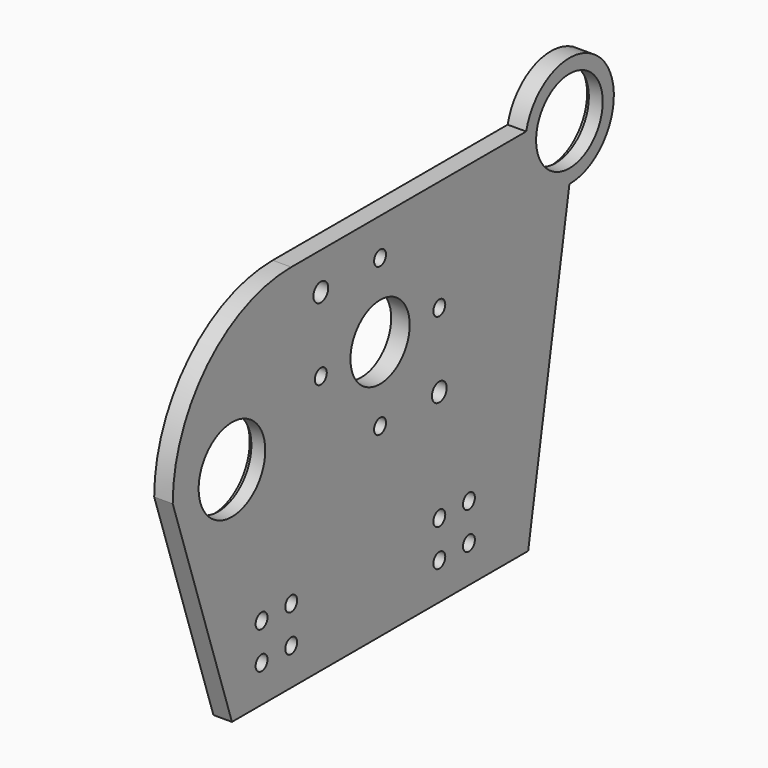
from build123d import *

# Parameters (mm, degrees)
F0_R     = 2.5527
F0_R_2   = 3.175
F0_R_3   = 14.2748
F0_R_4   = 12.7
F1_DEPTH = 6.35
F2_R     = 15.5575
F3_DEPTH = 1.6002


with BuildPart() as f1:
    # F0 (on Right) → F1 (new body)
    with BuildSketch(Plane.YZ):
        with BuildLine():
            Line((126.1410294417, 127), (25.4, 127))
            ThreePointArc((25.4, 127), (-10.5210244843, 112.1210244843), (-25.4, 76.2))
            Line((-25.4, 76.2), (0, 0))
            Line((0, 0), (12.7, 0))
            Line((12.7, 0), (25.4, 0))
            Line((25.4, 0), (101.6, 0))
            Line((101.6, 0), (127, 0))
            Line((127, 0), (144.6833077958, 103.5812))
            ThreePointArc((144.6833077958, 103.5812), (159.618637387, 134.4565300165), (126.1410294417, 127))
        make_face()
        with Locations((12.7, 12.7)):
            Circle(F0_R, mode=Mode.SUBTRACT)
        with Locations((12.7, 25.4)):
            Circle(F0_R, mode=Mode.SUBTRACT)
        with Locations((25.4, 12.7)):
            Circle(F0_R, mode=Mode.SUBTRACT)
        with Locations((25.4, 25.4)):
            Circle(F0_R, mode=Mode.SUBTRACT)
        with Locations((63.5, 63.5)):
            Circle(F0_R, mode=Mode.SUBTRACT)
        with Locations((88.9, 12.7)):
            Circle(F0_R, mode=Mode.SUBTRACT)
        with Locations((101.6, 12.7)):
            Circle(F0_R, mode=Mode.SUBTRACT)
        with Locations((88.9, 25.4)):
            Circle(F0_R, mode=Mode.SUBTRACT)
        with Locations((101.6, 25.4)):
            Circle(F0_R, mode=Mode.SUBTRACT)
        with Locations((88.9, 63.5)):
            Circle(F0_R_2, mode=Mode.SUBTRACT)
        with Locations((0, 76.2)):
            Circle(F0_R_3, mode=Mode.SUBTRACT)
        with Locations((38.1, 88.9)):
            Circle(F0_R, mode=Mode.SUBTRACT)
        with Locations((63.5, 88.9)):
            Circle(F0_R_4, mode=Mode.SUBTRACT)
        with Locations((38.1, 114.3)):
            Circle(F0_R_2, mode=Mode.SUBTRACT)
        with Locations((63.5, 114.3)):
            Circle(F0_R, mode=Mode.SUBTRACT)
        with Locations((88.9, 88.9)):
            Circle(F0_R, mode=Mode.SUBTRACT)
        with Locations((144.6833077958, 122.6312)):
            Circle(F0_R_3, mode=Mode.SUBTRACT)
    extrude(amount=F1_DEPTH)

    # F2 (on Right) → F3 (cut)
    with BuildSketch(Plane.YZ):
        with Locations((0, 76.2)):
            Circle(F2_R)
        with Locations((144.653, 122.6312)):
            Circle(F2_R)
    extrude(amount=F3_DEPTH, mode=Mode.SUBTRACT)


solid = f1.part
